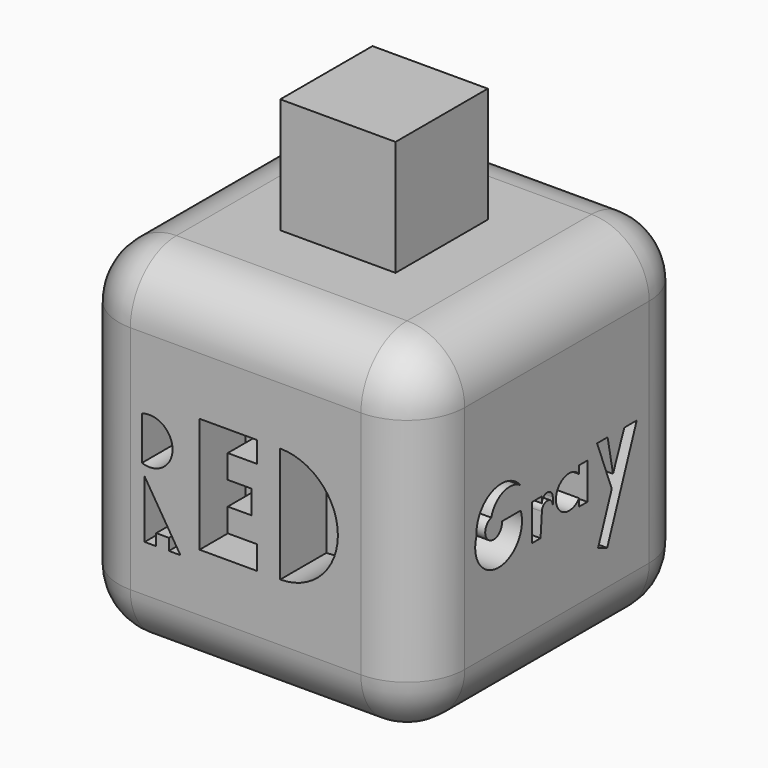
from build123d import *

# Parameters (mm, degrees)
F0_W      = 76.2
F0_H      = 76.2
F1_DEPTH  = 76.2
F2_R      = 12.7
F4_DEPTH  = 12.7
F6_DEPTH  = 12.7
F7_W      = 25.4
F7_H      = 25.4
F8_DEPTH  = 25.4
F9_W      = 25.4
F9_H      = 25.4
F10_DEPTH = 25.4
F11_W     = 3.6200266331
F11_H     = 25.4
F12_DEPTH = 12.7
F13_W     = 5.1714666188
F13_H     = 16.2901245058
F13_R     = 2.3271590471
F14_DEPTH = 12.7
F16_DEPTH = 12.7


with BuildPart() as f1:
    # F0 (on Front) → F1 (new body)
    with BuildSketch(Plane.XZ):
        with Locations((38.1, 38.1)):
            Rectangle(F0_W, F0_H)
    extrude(amount=F1_DEPTH)

    # F2
    f2_edges = [f1.edges().sort_by_distance(p)[0] for p in [
        (38.1, -76.2, 76.2),
        (76.2, -38.1, 76.2),
        (38.1, 0, 76.2),
        (0, -38.1, 76.2),
        (76.2, -76.2, 38.1),
        (76.2, 0, 38.1),
        (0, -76.2, 38.1),
        (0, 0, 38.1),
        (0, -38.1, 0),
        (38.1, 0, 0),
        (76.2, -38.1, 0),
        (38.1, -76.2, 0),
    ]]
    fillet(f2_edges, radius=F2_R)

    # F3 (on face) → F4 (cut)
    with BuildSketch(Plane.XZ.offset(76.2)):
        with BuildLine():
            Line((15.24, 47.6933766934), (15.24, 38.1))
            ThreePointArc((15.24, 38.1), (21.992776406, 42.8966883467), (15.24, 47.6933766934))
        make_face()
        Polygon((27.94, 50.8), (27.94, 25.4), (40.64, 25.4), (40.64, 30.5915938972), (34.1505076285, 30.5915938972), (34.1505076285, 35.7831877943), (39.3421015257, 35.7831877943), (39.3421015257, 40.9747816915), (34.1505076285, 40.9747816915), (34.1505076285, 46.1663755887), (40.64, 46.1663755887), (40.64, 50.8), align=None)
        with BuildLine():
            ThreePointArc((45.72, 25.4), (58.42, 38.1), (45.72, 50.8))
            Line((45.72, 50.8), (45.72, 25.4))
        make_face()
    extrude(amount=-F4_DEPTH, mode=Mode.SUBTRACT)

    # F5 (on face) → F6 (cut)
    with BuildSketch(Plane.XZ.offset(76.2)):
        Polygon((23.7294812034, 22.97295762), (15.8522693162, 35.67295762), (15.8522693162, 22.97295762), (18.3922693162, 22.97295762), (18.3922693162, 25.51295762), (21.1894812034, 25.51295762), (21.1894812034, 22.97295762), align=None)
    extrude(amount=-F6_DEPTH, mode=Mode.SUBTRACT)

    # F7 (on face) → F8 (cut)
    with BuildSketch(Plane(origin=(0, 0, 0), x_dir=(1, 0, 0), z_dir=(0, 0, -1))):
        with Locations((38.1038359793, 38.1)):
            Rectangle(F7_W, F7_H)
    extrude(amount=-F8_DEPTH, mode=Mode.SUBTRACT)

    # F9 (on face) → F10 (join)
    with BuildSketch(Plane.XY.offset(76.2)):
        with Locations((38.1, -38.0961640207)):
            Rectangle(F9_W, F9_H)
    extrude(amount=F10_DEPTH)

    # F11 (on face) → F12 (cut)
    with BuildSketch(Plane(origin=(0, 0, 0), x_dir=(0, -1, 0), z_dir=(-1, 0, 0))):
        with BuildLine():
            ThreePointArc((16.548698768, 44.5045307279), (20.8982916063, 50.9688649327), (16.548698768, 57.4331991374))
            Line((16.548698768, 57.4331991374), (16.548698768, 44.5045307279))
        make_face()
        with BuildLine():
            ThreePointArc((16.548698768, 20.9743473679), (23.013450923, 29.5072691515), (16.548698768, 38.0401909351))
            Line((16.548698768, 38.0401909351), (16.548698768, 20.9743473679))
        make_face()
        with Locations((27.4087795988, 32.1229073822)):
            Rectangle(F11_W, F11_H)
        with BuildLine():
            Line((36.9759984314, 37.5230461359), (31.0288090259, 37.5230461359))
            ThreePointArc((31.0288090259, 37.5230461359), (39.5617289469, 24.9625075374), (48.0946488678, 37.5230461359))
            Line((48.0946488678, 37.5230461359), (42.1474650502, 37.5230461359))
            ThreePointArc((42.1474650502, 37.5230461359), (39.5617317408, 29.699298714), (36.9759984314, 37.5230461359))
        make_face()
        Polygon((51.9732572138, 54.6391973982), (51.9732572138, 29.2391973982), (59.5346949809, 30.1820965947), (59.5346949809, 35.2620965947), (53.9881583642, 35.2620965947), (53.9881583642, 40.3420965947), (59.0681583642, 40.3420965947), (59.0681583642, 45.4220965947), (53.9881583642, 45.4220965947), (53.9881583642, 50.5020965947), (58.9798856309, 49.5591973982), (58.9798856309, 54.6391973982), align=None)
    extrude(amount=-F12_DEPTH, mode=Mode.SUBTRACT)

    # F13 (on face) → F14 (cut)
    with BuildSketch(Plane(origin=(0, 0, 0), x_dir=(-1, 0, 0), z_dir=(0, 1, 0))):
        with BuildLine():
            ThreePointArc((-52.724421297, 37.3828077149), (-48.797749492, 44.5476863023), (-56.9577540953, 44.958248733))
            Line((-56.9577540953, 44.958248733), (-56.9577540953, 19.558248733))
            Line((-56.9577540953, 19.558248733), (-52.724421297, 19.558248733))
            Line((-52.724421297, 19.558248733), (-52.724421297, 37.3828077149))
        make_face()
        with Locations((-42.6646117121, 28.6022629589)):
            Rectangle(F13_W, F13_H)
        with BuildLine():
            Line((-37.4931432307, 36.7473252118), (-37.4931432307, 20.7157749683))
            Line((-37.4931432307, 20.7157749683), (-34.9074080586, 20.7157749683))
            Line((-34.9074080586, 20.7157749683), (-34.9074080586, 28.2144043595))
            ThreePointArc((-34.9074080586, 28.2144043595), (-31.9338152185, 31.1879971996), (-28.9602223784, 28.2144043595))
            Line((-28.9602223784, 28.2144043595), (-28.9602223784, 21.2329216301))
            Line((-28.9602223784, 21.2329216301), (-26.4202223784, 21.2329216301))
            Line((-26.4202223784, 21.2329216301), (-27.4545157021, 32.0930033922))
            ThreePointArc((-27.4545157021, 32.0930033922), (-30.6866828045, 35.3251704946), (-33.9188499069, 32.0930033922))
            Line((-33.9188499069, 32.0930033922), (-33.9188499069, 36.7473252118))
            Line((-33.9188499069, 36.7473252118), (-37.4931432307, 36.7473252118))
        make_face()
        Polygon((-23.4643667936, 45.8856336772), (-23.4643667936, 21.2329216301), (-21.2937723845, 21.1951211095), (-21.2937723845, 28.6565385759), (-18.9875140786, 21.1951211095), (-15.4602974653, 21.1951211095), (-21.4294362813, 33.4047153592), (-14.3750030547, 45.6143096089), (-17.0882474631, 45.6143096089), (-21.2937723845, 39.2381884158), (-21.2937723845, 45.8856336772), align=None)
        with Locations((-42.4060374498, 42.69451648)):
            Circle(F13_R)
    extrude(amount=-F14_DEPTH, mode=Mode.SUBTRACT)

    # F15 (on face) → F16 (cut)
    with BuildSketch(Plane.YZ.offset(76.2)):
        with BuildLine():
            Line((-48.0946525931, 37.2644737363), (-53.2661229372, 37.2644737363))
            ThreePointArc((-53.2661229372, 37.2644737363), (-56.8104432824, 35.0391216214), (-56.1766475439, 39.1758717597))
            ThreePointArc((-56.1766475439, 39.1758717597), (-52.9242890713, 42.80015293), (-48.0946525931, 42.1773679554))
            ThreePointArc((-48.0946525931, 42.1773679554), (-55.964214699, 44.1564514691), (-60.2476038039, 37.2644737363))
            ThreePointArc((-60.2476038039, 37.2644737363), (-54.1711281985, 28.6739696125), (-48.0946525931, 37.2644737363))
        make_face()
        with BuildLine():
            Line((-45.0075529516, 37.6416556537), (-45.0075529516, 29.6637304127))
            Line((-45.0075529516, 29.6637304127), (-42.6141768694, 29.6637304127))
            Line((-42.6141768694, 29.6637304127), (-42.2433055937, 34.6854478121))
            ThreePointArc((-42.2433055937, 34.6854478121), (-40.744535625, 36.1842177808), (-39.2457656562, 34.6854478121))
            Line((-39.2457656562, 34.6854478121), (-39.2457656562, 36.2912714481))
            ThreePointArc((-39.2457656562, 36.2912714481), (-40.744535625, 37.7900414169), (-42.2433055937, 36.2912714481))
            Line((-42.2433055937, 36.2912714481), (-42.2433055937, 37.6416556537))
            Line((-42.2433055937, 37.6416556537), (-45.0075529516, 37.6416556537))
        make_face()
        with BuildLine():
            ThreePointArc((-31.9660305977, 33.0967174506), (-31.3338769664, 34.1906255239), (-31.1143183532, 35.4348309338))
            ThreePointArc((-31.1143183532, 35.4348309338), (-31.3338769664, 36.6790363437), (-31.9660305977, 37.772944417))
            Line((-31.9660305977, 37.772944417), (-31.9660305977, 33.0967174506))
        make_face()
        with BuildLine():
            ThreePointArc((-31.9660305977, 37.772944417), (-31.3338769664, 36.6790363437), (-31.1143183532, 35.4348309338))
            ThreePointArc((-31.1143183532, 35.4348309338), (-31.3338769664, 34.1906255239), (-31.9660305977, 33.0967174506))
            Line((-31.9660305977, 33.0967174506), (-31.9660305977, 31.4737968147))
            Line((-31.9660305977, 31.4737968147), (-29.7178756446, 31.4737968147))
            Line((-29.7178756446, 31.4737968147), (-29.7178756446, 39.5029187202))
            Line((-29.7178756446, 39.5029187202), (-31.9660305977, 39.5029187202))
            Line((-31.9660305977, 39.5029187202), (-31.9660305977, 37.772944417))
        make_face()
        with BuildLine():
            Line((-31.9660305977, 33.0967174506), (-31.9660305977, 37.772944417))
            ThreePointArc((-31.9660305977, 37.772944417), (-38.3846005973, 35.4348309338), (-31.9660305977, 33.0967174506))
        make_face()
        Polygon((-24.1510178894, 41.751075536), (-27.0415022969, 41.751075536), (-22.9996046927, 31.2696424589), (-26.7875780846, 21.3012932532), (-24.2580734193, 20.3400813043), (-16.1218941212, 41.751075536), (-19.5476543158, 41.751075536), (-22.6522479206, 34.0431183577), align=None)
    extrude(amount=-F16_DEPTH, mode=Mode.SUBTRACT)


solid = f1.part
